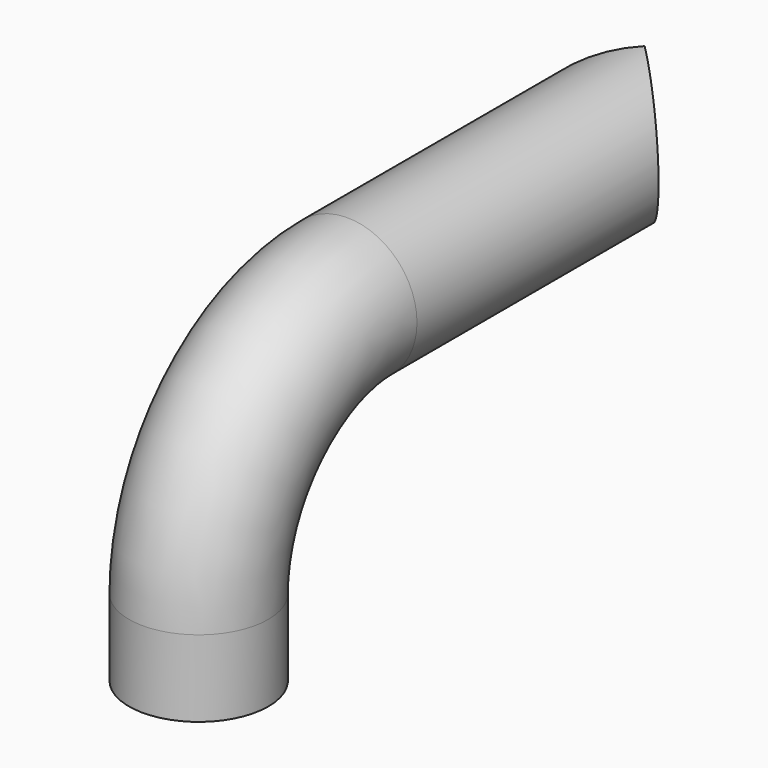
from build123d import *

# Parameters (mm, degrees)
F0_R     = 150
F0_R_2   = 148
F3_DEPTH = 150
F4_R     = 200
F5_DEPTH = 1350.0010001


with BuildPart() as f2:
    # F2: sweep along a path in F1
    with BuildLine(Plane.YZ) as f2_path:
        Line((0, 0), (-800, 0))
        ThreePointArc((-800, 0), (-1082.8427124746, -117.1572875254), (-1200, -400))
        Line((-1200, -400), (-1200, -565))
    # F0 (on Front) → F2 (sweep)
    with BuildSketch(Plane.XZ):
        Circle(F0_R)
        Circle(F0_R_2, mode=Mode.SUBTRACT)
    sweep(path=f2_path.line)

    # F1 (on Right) → F3 (cut, symmetric)
    with BuildSketch(Plane.YZ):
        with BuildLine():
            ThreePointArc((-150, 0), (0, -150), (150, 0))
            ThreePointArc((150, 0), (0, 150), (-150, 0))
        make_face()
    extrude(amount=F3_DEPTH, both=True, mode=Mode.SUBTRACT)

    # F4 (on Front) → F5 (cut, through all)
    with BuildSketch(Plane.XZ):
        with Locations((0, -7129.1327476501)):
            Circle(F4_R)
    extrude(amount=F5_DEPTH, mode=Mode.SUBTRACT)


solid = f2.part
